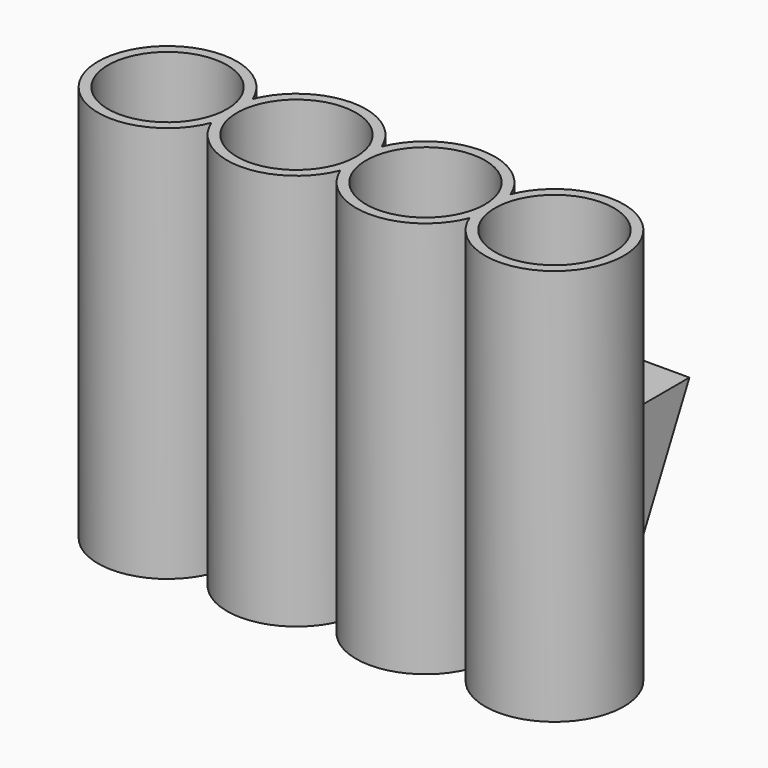
from build123d import *

# Parameters (mm, degrees)
F0_R     = 7.62
F1_DEPTH = 50.8
F2_DEPTH = 25.4
F4_DEPTH = 61.468
F5_DEPTH = 2.54


with BuildPart() as f1:
    # F0 (on Top) → F1 (new body)
    with BuildSketch(Plane.XY):
        with BuildLine():
            ThreePointArc((16.51, 8.89), (11.525071, 7.360882), (8.255, 3.299557))
            ThreePointArc((8.255, 3.299557), (4.984929, 7.360882), (0, 8.89))
            ThreePointArc((0, 8.89), (-7.360882, -4.984929), (8.255, -3.299557))
            ThreePointArc((8.255, -3.299557), (16.51, -8.89), (24.765, -3.299557))
            ThreePointArc((24.765, -3.299557), (33.02, -8.89), (41.275, -3.299557))
            ThreePointArc((41.275, -3.299557), (56.890882, -4.984929), (49.53, 8.89))
            ThreePointArc((49.53, 8.89), (44.545071, 7.360882), (41.275, 3.299557))
            ThreePointArc((41.275, 3.299557), (38.004929, 7.360882), (33.02, 8.89))
            ThreePointArc((33.02, 8.89), (28.035071, 7.360882), (24.765, 3.299557))
            ThreePointArc((24.765, 3.299557), (21.494929, 7.360882), (16.51, 8.89))
        make_face()
        Circle(F0_R, mode=Mode.SUBTRACT)
        with Locations((16.51, 0)):
            Circle(F0_R, mode=Mode.SUBTRACT)
        with Locations((33.02, 0)):
            Circle(F0_R, mode=Mode.SUBTRACT)
        with Locations((49.53, 0)):
            Circle(F0_R, mode=Mode.SUBTRACT)
    extrude(amount=F1_DEPTH)

    # F0 (on Top) → F2 (join)
    with BuildSketch(Plane.XY):
        with BuildLine():
            Line((49.53, 8.89), (33.02, 8.89))
            ThreePointArc((33.02, 8.89), (38.004929, 7.360882), (41.275, 3.299557))
            ThreePointArc((41.275, 3.299557), (44.545071, 7.360882), (49.53, 8.89))
        make_face()
        with BuildLine():
            Line((33.02, 8.89), (16.51, 8.89))
            ThreePointArc((16.51, 8.89), (21.494929, 7.360882), (24.765, 3.299557))
            ThreePointArc((24.765, 3.299557), (28.035071, 7.360882), (33.02, 8.89))
        make_face()
        with BuildLine():
            ThreePointArc((0, 8.89), (4.984929, 7.360882), (8.255, 3.299557))
            ThreePointArc((8.255, 3.299557), (11.525071, 7.360882), (16.51, 8.89))
            Line((16.51, 8.89), (0, 8.89))
        make_face()
        Polygon((0, 21.59), (0, 8.89), (16.51, 8.89), (33.02, 8.89), (49.53, 8.89), (49.53, 21.59), align=None)
    extrude(amount=F2_DEPTH)

    # F3 (on face) → F4 (cut)
    with BuildSketch(Plane(origin=(0, 0, 0), x_dir=(0, -1, 0), z_dir=(-1, 0, 0))):
        Polygon((-8.89, 0), (-21.59, 25.4), (-21.59, 0), align=None)
    extrude(amount=-F4_DEPTH, mode=Mode.SUBTRACT)

    # F0 (on Top) → F5 (join)
    with BuildSketch(Plane.XY):
        Circle(F0_R)
        with Locations((16.51, 0)):
            Circle(F0_R)
        with Locations((33.02, 0)):
            Circle(F0_R)
        with Locations((49.53, 0)):
            Circle(F0_R)
    extrude(amount=F5_DEPTH)


solid = f1.part
